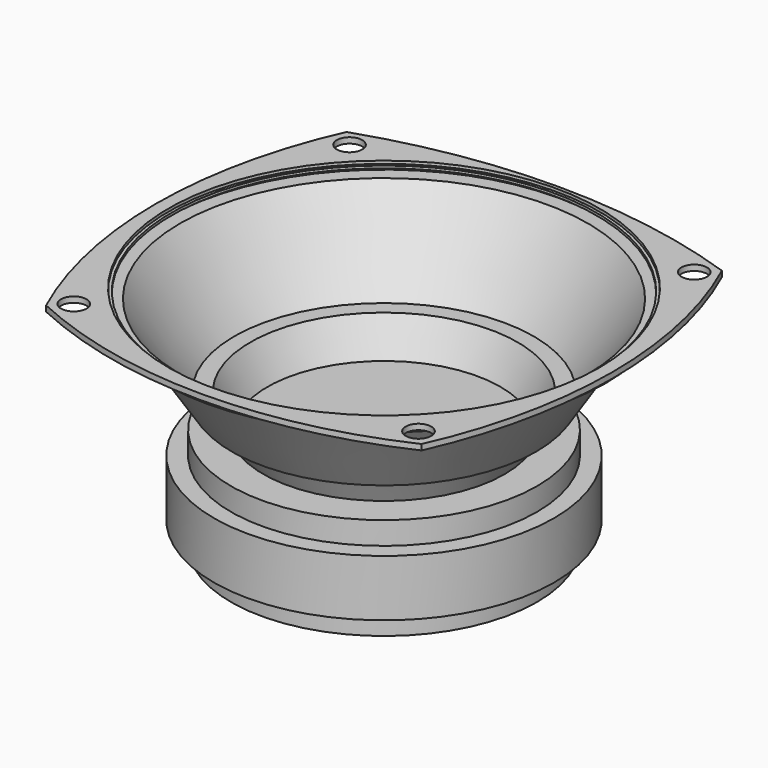
from build123d import *

# Parameters (mm, degrees)
SKETCH001_R   = 2.25
SKETCH001_R_2 = 38.017291
PAD_DEPTH     = 1


with BuildPart() as part:
    # Sketch → Revolution (revolve)
    with BuildSketch(Plane.XZ):
        Polygon((0, 0), (27, 0), (27, 4), (30, 4), (30, 14), (27, 14), (27, 18), (21.287003, 18), (23.87335, 23.307098), (26.847654, 23.307098), (36.231567, 37.891254), (39.074654, 37.891254), (39, 39.5), (37.505909, 39.5), (37.505909, 39.066467), (38.493389, 39.066467), (38.493389, 38.34399), (35.97266, 38.34399), (26.419674, 23.90789), (23.58906, 23.90789), (20.568153, 17.960899), (0, 17.960899), align=None)
    revolve(axis=Axis((0, 0, 0), (0, 0, 1)))

    # Sketch001 → Pad (new body)
    with BuildSketch(Plane.XY.offset(39)):
        with BuildLine():
            ThreePointArc((33.120745, -33.120745), (40.25, 0), (33.120745, 33.120745))
            ThreePointArc((33.120745, 33.120745), (0, 38.620344), (-33.120745, 33.120745))
            ThreePointArc((-33.120745, 33.120745), (-40.25, 0), (-33.120745, -33.120745))
            ThreePointArc((-33.120745, -33.120745), (0, -40.397171), (33.120745, -33.120745))
        make_face()
        with Locations((-30.405592, 30.405592)):
            Circle(SKETCH001_R, mode=Mode.SUBTRACT)
        with Locations((30.405592, 30.405592)):
            Circle(SKETCH001_R, mode=Mode.SUBTRACT)
        with Locations((30.405592, -30.405592)):
            Circle(SKETCH001_R, mode=Mode.SUBTRACT)
        with Locations((-30.405592, -30.405592)):
            Circle(SKETCH001_R, mode=Mode.SUBTRACT)
        Circle(SKETCH001_R_2, mode=Mode.SUBTRACT)
    extrude(amount=PAD_DEPTH)


solid = part.part
